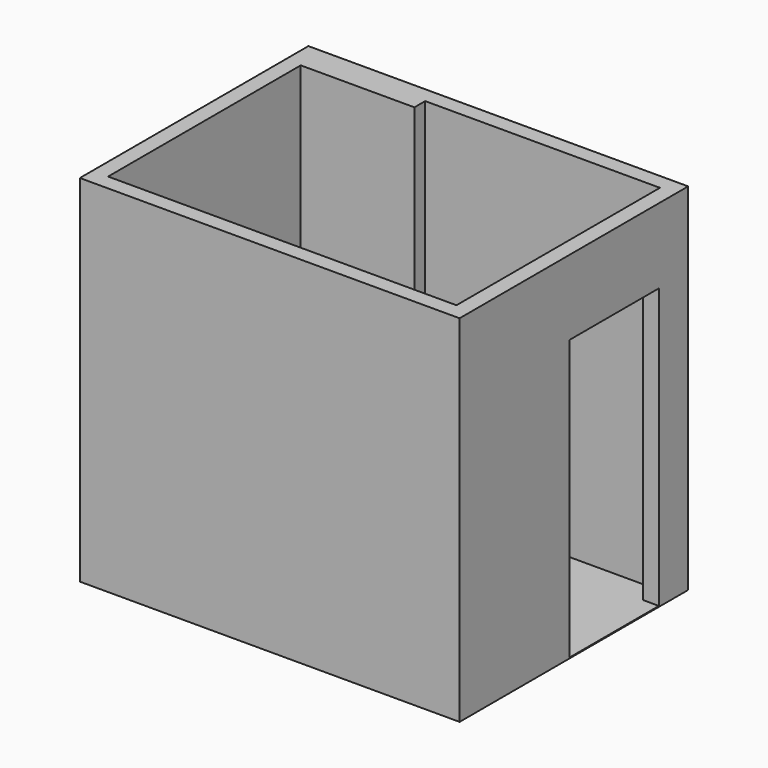
from build123d import *

# Parameters (mm, degrees)
F1_DEPTH = 2590.8
F3_DEPTH = 6.35
F6_DEPTH = 546.1


with BuildPart() as f1:
    # F0 (on Top) → F1 (new body)
    with BuildSketch(Plane.XY):
        Polygon((2768.6, 0), (0, 0), (0, -2082.8), (2768.6, -2082.8), (2768.6, -1079.5), (2730.5, -1079.5), (2730.5, -1917.7), (2692.4, -1917.7), (2692.4, -1079.5), (2654.3, -1079.5), (2654.3, -1968.5), (114.3, -1968.5), (114.3, -212.725), (942.975, -212.725), (942.975, -114.3), (2654.3, -114.3), (2654.3, -266.7), (2768.6, -266.7), align=None)
    extrude(amount=F1_DEPTH)

    # F5 (on offset) → F6 (join)
    with BuildSketch(Plane.XY.offset(2044.7)):
        Polygon((2768.6, -266.7), (2654.3, -266.7), (2654.3, -1079.5), (2692.4, -1079.5), (2692.4, -1917.7), (2730.5, -1917.7), (2730.5, -1079.5), (2768.6, -1079.5), align=None)
    extrude(amount=F6_DEPTH)


with BuildPart() as f3:
    # F2 (on Top) → F3 (new body)
    with BuildSketch(Plane.XY):
        Polygon((942.975, -212.725), (114.3, -212.725), (114.3, -1968.5), (2654.3, -1968.5), (2654.3, -1079.5), (2692.4, -1079.5), (2692.4, -1917.7), (2730.5, -1917.7), (2730.5, -1079.5), (2768.6, -1079.5), (2768.6, -266.7), (2654.3, -266.7), (2654.3, -114.3), (942.975, -114.3), align=None)
    extrude(amount=F3_DEPTH)


solid = Compound([f1.part, f3.part])
